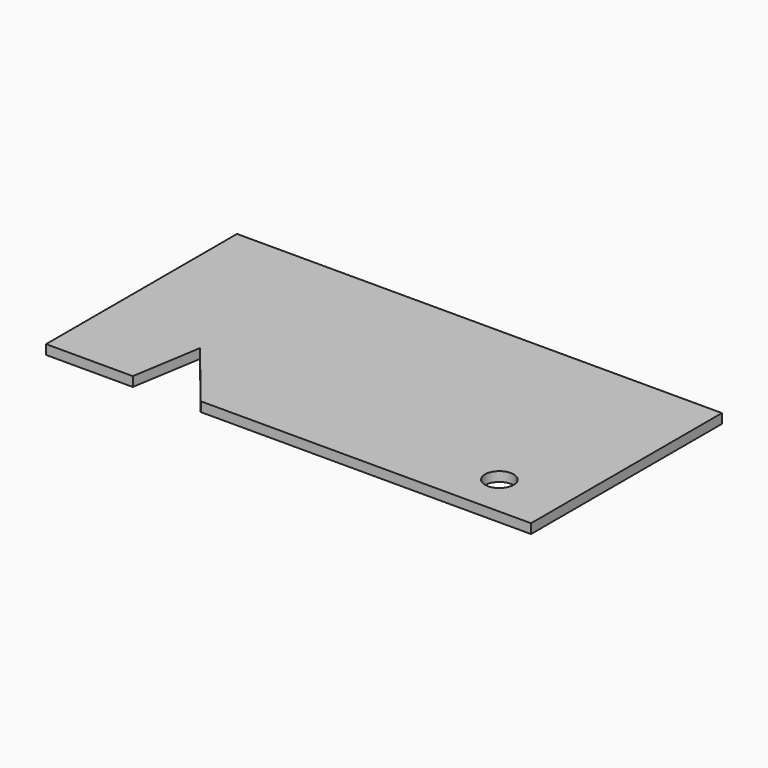
from build123d import *

# Parameters (mm, degrees)
F0_W     = 50.8
F0_H     = 25
F1_DEPTH = 1
F2_R     = 1.5
F3_DEPTH = 25
F5_DEPTH = 25


with BuildPart() as f1:
    # F0 (on Top) → F1 (new body)
    with BuildSketch(Plane.XY):
        Rectangle(F0_W, F0_H)
    extrude(amount=F1_DEPTH)

    # F2 (on face) → F3 (cut)
    with BuildSketch(Plane.XY.offset(1)):
        with Locations((18.549042, -8.076559)):
            Circle(F2_R)
    extrude(amount=-F3_DEPTH, mode=Mode.SUBTRACT)

    # F4 (on face) → F5 (cut)
    with BuildSketch(Plane.XY.offset(1)):
        Polygon((-15.12827, -5.19568), (-16.317381, -12.5), (-9.196741, -12.5), align=None)
    extrude(amount=-F5_DEPTH, mode=Mode.SUBTRACT)


solid = f1.part
